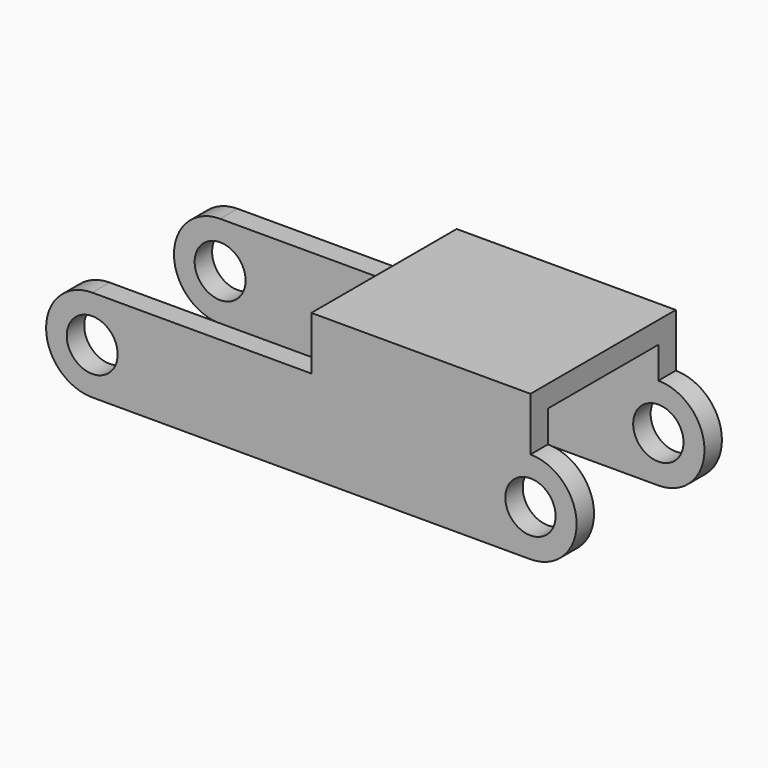
from build123d import *

# Parameters (mm, degrees)
F0_R     = 3.503318
F0_R_2   = 3.462973
F0_W     = 30.154734
F0_H     = 7.349356
F1_DEPTH = 25
F2_DEPTH = 25
F3_W     = 19
F3_H     = 27.151244
F4_DEPTH = 66.44531


with BuildPart() as f1:
    # F0 (on Front) → F1 (new body)
    with BuildSketch(Plane.XZ):
        with BuildLine():
            ThreePointArc((-30.65178, 6.35), (-37.00178, 0), (-30.65178, -6.35))
            Line((-30.65178, -6.35), (29.657688, -6.35))
            ThreePointArc((29.657688, -6.35), (36.007688, 0), (29.657688, 6.35))
            Line((29.657688, 6.35), (-0.497046, 6.35))
            Line((-0.497046, 6.35), (-30.65178, 6.35))
        make_face()
        with Locations((-30.65178, 0)):
            Circle(F0_R, mode=Mode.SUBTRACT)
        with Locations((29.657688, 0)):
            Circle(F0_R_2, mode=Mode.SUBTRACT)
        with Locations((14.580321, 10.024678)):
            Rectangle(F0_W, F0_H)
    extrude(amount=F1_DEPTH)

    # F0 (on Front) → F2 (join)
    with BuildSketch(Plane.XZ):
        with BuildLine():
            ThreePointArc((-30.65178, 6.35), (-37.00178, 0), (-30.65178, -6.35))
            Line((-30.65178, -6.35), (29.657688, -6.35))
            ThreePointArc((29.657688, -6.35), (36.007688, 0), (29.657688, 6.35))
            Line((29.657688, 6.35), (-0.497046, 6.35))
            Line((-0.497046, 6.35), (-30.65178, 6.35))
        make_face()
        with Locations((-30.65178, 0)):
            Circle(F0_R, mode=Mode.SUBTRACT)
        with Locations((29.657688, 0)):
            Circle(F0_R_2, mode=Mode.SUBTRACT)
        with Locations((14.580321, 10.024678)):
            Rectangle(F0_W, F0_H)
    extrude(amount=F2_DEPTH)

    # F3 (on Right) → F4 (cut, symmetric)
    with BuildSketch(Plane.YZ):
        with Locations((-12.5, -2.876266)):
            Rectangle(F3_W, F3_H)
    extrude(amount=F4_DEPTH, both=True, mode=Mode.SUBTRACT)


solid = f1.part
